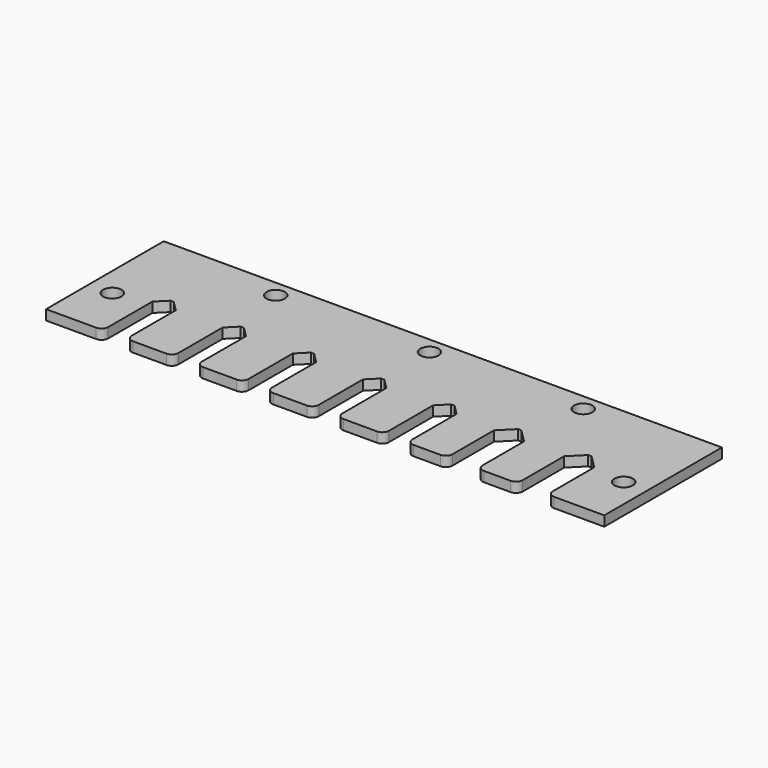
from build123d import *

# Parameters (mm, degrees)
F0_R     = 2.75
F1_DEPTH = 3


with BuildPart() as f1:
    # F0 (on Top) → F1 (new body)
    with BuildSketch(Plane.XY):
        with BuildLine():
            Line((0, 44), (0, 0))
            Line((0, 0), (15, 0))
            ThreePointArc((15, 0), (16.414214, 0.585786), (17, 2))
            Line((17, 2), (17, 18.5))
            Line((17, 18.5), (17, 19))
            ThreePointArc((17, 19), (17.87868, 21.12132), (20, 22))
            Line((20, 22), (20.5, 22))
            Line((20.5, 22), (21, 22))
            ThreePointArc((21, 22), (23.12132, 21.12132), (24, 19))
            Line((24, 19), (24, 18.5))
            Line((24, 18.5), (24, 2))
            ThreePointArc((24, 2), (24.585786, 0.585786), (26, 0))
            Line((26, 0), (36, 0))
            ThreePointArc((36, 0), (37.414214, 0.585786), (38, 2))
            Line((38, 2), (38, 18.5))
            Line((38, 18.5), (38, 19))
            ThreePointArc((38, 19), (38.87868, 21.12132), (41, 22))
            Line((41, 22), (41.5, 22))
            Line((41.5, 22), (42, 22))
            ThreePointArc((42, 22), (44.12132, 21.12132), (45, 19))
            Line((45, 19), (45, 18.5))
            Line((45, 18.5), (45, 2))
            ThreePointArc((45, 2), (45.585786, 0.585786), (47, 0))
            Line((47, 0), (57, 0))
            ThreePointArc((57, 0), (58.414214, 0.585786), (59, 2))
            Line((59, 2), (59, 18.5))
            Line((59, 18.5), (59, 19))
            ThreePointArc((59, 19), (59.87868, 21.12132), (62, 22))
            Line((62, 22), (62.5, 22))
            Line((62.5, 22), (63, 22))
            ThreePointArc((63, 22), (65.12132, 21.12132), (66, 19))
            Line((66, 19), (66, 18.5))
            Line((66, 18.5), (66, 2))
            ThreePointArc((66, 2), (66.585786, 0.585786), (68, 0))
            Line((68, 0), (78, 0))
            ThreePointArc((78, 0), (79.414214, 0.585786), (80, 2))
            Line((80, 2), (80, 18.5))
            Line((80, 18.5), (80, 19))
            ThreePointArc((80, 19), (80.87868, 21.12132), (83, 22))
            Line((83, 22), (83.5, 22))
            Line((83.5, 22), (84, 22))
            ThreePointArc((84, 22), (86.12132, 21.12132), (87, 19))
            Line((87, 19), (87, 18.5))
            Line((87, 18.5), (87, 2))
            ThreePointArc((87, 2), (87.585786, 0.585786), (89, 0))
            Line((89, 0), (99, 0))
            ThreePointArc((99, 0), (100.414214, 0.585786), (101, 2))
            Line((101, 2), (101, 18.5))
            Line((101, 18.5), (101, 19))
            ThreePointArc((101, 19), (101.87868, 21.12132), (104, 22))
            Line((104, 22), (104.5, 22))
            Line((104.5, 22), (105, 22))
            ThreePointArc((105, 22), (107.12132, 21.12132), (108, 19))
            Line((108, 19), (108, 18.5))
            Line((108, 18.5), (108, 2))
            ThreePointArc((108, 2), (108.585786, 0.585786), (110, 0))
            Line((110, 0), (118, 0))
            ThreePointArc((118, 0), (119.414214, 0.585786), (120, 2))
            Line((120, 2), (120, 17.5))
            Line((120, 17.5), (120, 18))
            ThreePointArc((120, 18), (121.171573, 20.828427), (124, 22))
            Line((124, 22), (124.5, 22))
            Line((124.5, 22), (125, 22))
            ThreePointArc((125, 22), (127.828427, 20.828427), (129, 18))
            Line((129, 18), (129, 17.5))
            Line((129, 17.5), (129, 2))
            ThreePointArc((129, 2), (129.585786, 0.585786), (131, 0))
            Line((131, 0), (139, 0))
            ThreePointArc((139, 0), (140.414214, 0.585786), (141, 2))
            Line((141, 2), (141, 17.5))
            Line((141, 17.5), (141, 18))
            ThreePointArc((141, 18), (142.171573, 20.828427), (145, 22))
            Line((145, 22), (145.5, 22))
            Line((145.5, 22), (146, 22))
            ThreePointArc((146, 22), (148.828427, 20.828427), (150, 18))
            Line((150, 18), (150, 17.5))
            Line((150, 17.5), (150, 2))
            ThreePointArc((150, 2), (150.585786, 0.585786), (152, 0))
            Line((152, 0), (167, 0))
            Line((167, 0), (167, 44))
            Line((167, 44), (0, 44))
        make_face()
        with Locations((7, 16)):
            Circle(F0_R, mode=Mode.SUBTRACT)
        with Locations((160, 16)):
            Circle(F0_R, mode=Mode.SUBTRACT)
        with Locations((37.5, 39)):
            Circle(F0_R, mode=Mode.SUBTRACT)
        with Locations((83.5, 39)):
            Circle(F0_R, mode=Mode.SUBTRACT)
        with Locations((129.5, 39)):
            Circle(F0_R, mode=Mode.SUBTRACT)
        with BuildLine():
            Line((17, 19), (17, 18.5))
            Line((17, 18.5), (20, 21.5))
            Line((20, 21.5), (20.5, 22))
            Line((20.5, 22), (20, 22))
            ThreePointArc((20, 22), (17.87868, 21.12132), (17, 19))
        make_face()
        with BuildLine():
            Line((21, 22), (20.5, 22))
            Line((20.5, 22), (21, 21.5))
            Line((21, 21.5), (24, 18.5))
            Line((24, 18.5), (24, 19))
            ThreePointArc((24, 19), (23.12132, 21.12132), (21, 22))
        make_face()
        Polygon((20.5, 22), (20, 21.5), (21, 21.5), align=None)
        with BuildLine():
            Line((38, 19), (38, 18.5))
            Line((38, 18.5), (41, 21.5))
            Line((41, 21.5), (41.5, 22))
            Line((41.5, 22), (41, 22))
            ThreePointArc((41, 22), (38.87868, 21.12132), (38, 19))
        make_face()
        Polygon((41.5, 22), (41, 21.5), (42, 21.5), align=None)
        with BuildLine():
            Line((42, 22), (41.5, 22))
            Line((41.5, 22), (42, 21.5))
            Line((42, 21.5), (45, 18.5))
            Line((45, 18.5), (45, 19))
            ThreePointArc((45, 19), (44.12132, 21.12132), (42, 22))
        make_face()
        with BuildLine():
            Line((80, 19), (80, 18.5))
            Line((80, 18.5), (83, 21.5))
            Line((83, 21.5), (83.5, 22))
            Line((83.5, 22), (83, 22))
            ThreePointArc((83, 22), (80.87868, 21.12132), (80, 19))
        make_face()
        Polygon((83.5, 22), (83, 21.5), (84, 21.5), align=None)
        with BuildLine():
            Line((84, 22), (83.5, 22))
            Line((83.5, 22), (84, 21.5))
            Line((84, 21.5), (87, 18.5))
            Line((87, 18.5), (87, 19))
            ThreePointArc((87, 19), (86.12132, 21.12132), (84, 22))
        make_face()
        with BuildLine():
            Line((101, 18.5), (104, 21.5))
            Line((104, 21.5), (104.5, 22))
            Line((104.5, 22), (104, 22))
            ThreePointArc((104, 22), (101.87868, 21.12132), (101, 19))
            Line((101, 19), (101, 18.5))
        make_face()
        Polygon((104, 21.5), (105, 21.5), (104.5, 22), align=None)
        with BuildLine():
            Line((105, 21.5), (108, 18.5))
            Line((108, 18.5), (108, 19))
            ThreePointArc((108, 19), (107.12132, 21.12132), (105, 22))
            Line((105, 22), (104.5, 22))
            Line((104.5, 22), (105, 21.5))
        make_face()
        with BuildLine():
            Line((124, 21.5), (124.5, 22))
            Line((124.5, 22), (124, 22))
            ThreePointArc((124, 22), (121.171573, 20.828427), (120, 18))
            Line((120, 18), (120, 17.5))
            Line((120, 17.5), (124, 21.5))
        make_face()
        Polygon((124, 21.5), (125, 21.5), (124.5, 22), align=None)
        with BuildLine():
            Line((125, 21.5), (129, 17.5))
            Line((129, 17.5), (129, 18))
            ThreePointArc((129, 18), (127.828427, 20.828427), (125, 22))
            Line((125, 22), (124.5, 22))
            Line((124.5, 22), (125, 21.5))
        make_face()
        with BuildLine():
            Line((141, 17.5), (145, 21.5))
            Line((145, 21.5), (145.5, 22))
            Line((145.5, 22), (145, 22))
            ThreePointArc((145, 22), (142.171573, 20.828427), (141, 18))
            Line((141, 18), (141, 17.5))
        make_face()
        Polygon((145, 21.5), (146, 21.5), (145.5, 22), align=None)
        with BuildLine():
            Line((146, 21.5), (150, 17.5))
            Line((150, 17.5), (150, 18))
            ThreePointArc((150, 18), (148.828427, 20.828427), (146, 22))
            Line((146, 22), (145.5, 22))
            Line((145.5, 22), (146, 21.5))
        make_face()
        with BuildLine():
            Line((59, 19), (59, 18.5))
            Line((59, 18.5), (62, 21.5))
            Line((62, 21.5), (62.5, 22))
            Line((62.5, 22), (62, 22))
            ThreePointArc((62, 22), (59.87868, 21.12132), (59, 19))
        make_face()
        Polygon((62.5, 22), (62, 21.5), (63, 21.5), align=None)
        with BuildLine():
            Line((63, 22), (62.5, 22))
            Line((62.5, 22), (63, 21.5))
            Line((63, 21.5), (66, 18.5))
            Line((66, 18.5), (66, 19))
            ThreePointArc((66, 19), (65.12132, 21.12132), (63, 22))
        make_face()
    extrude(amount=F1_DEPTH)


solid = f1.part
